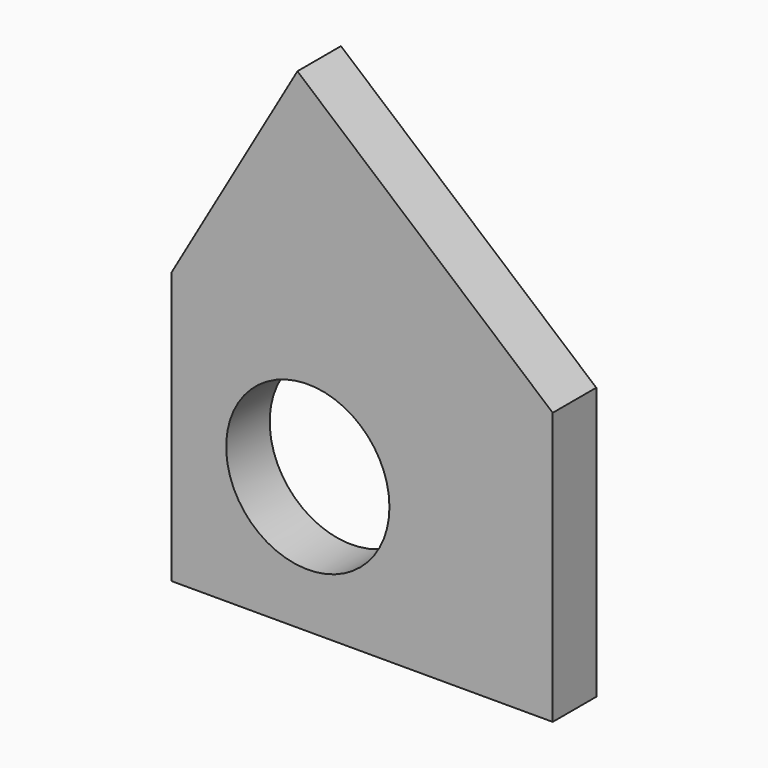
from build123d import *

# Parameters (mm, degrees)
F0_W     = 177.8
F0_H     = 127
F0_R     = 38.1
F1_DEPTH = 25.4


with BuildPart() as f1:
    # F0 (on Front) → F1 (new body)
    with BuildSketch(Plane.XZ):
        with Locations((25.4, -53.399413)):
            Rectangle(F0_W, F0_H)
        with Locations((0, -53.399413)):
            Circle(F0_R, mode=Mode.SUBTRACT)
        Polygon((-63.5, 10.100587), (114.3, 10.100587), (-4.841213, 111.700587), align=None)
    extrude(amount=F1_DEPTH)


solid = f1.part
